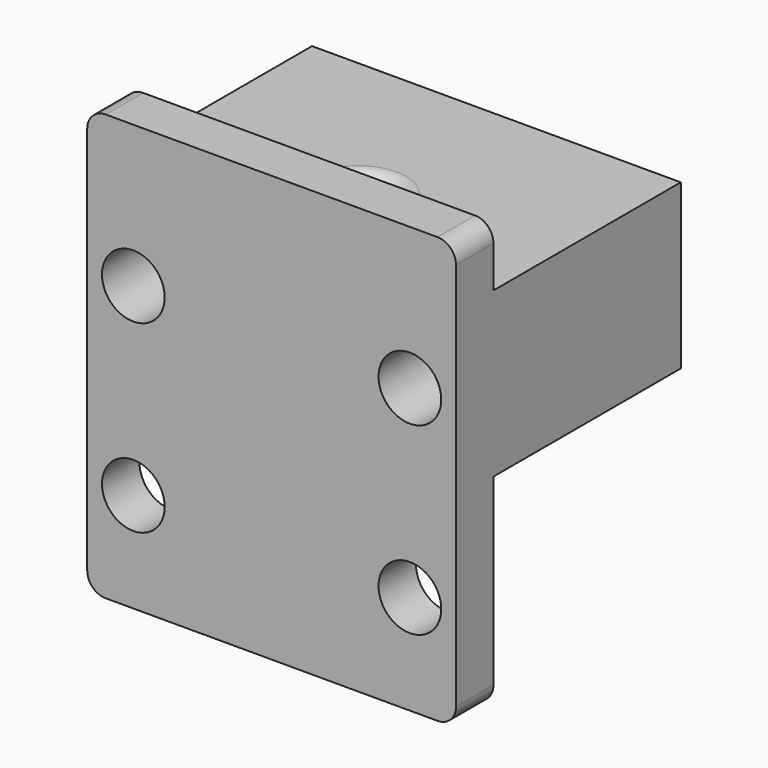
from build123d import *

# Parameters (mm, degrees)
SKETCH036_W  = 19.99996
SKETCH036_H  = 23.09876
SKETCH036_R  = 1.7
PAD003_DEPTH = 2.54
SKETCH051_W  = 19.99996
SKETCH051_H  = 8.89
SKETCH051_R  = 1.7
PAD_DEPTH    = 12.7
SKETCH050_R  = 0.9
PAD011_DEPTH = 2.975
SKETCH_R     = 1.5875
POCKET_DEPTH = 8.89
FILLET_R     = 1.00076


with BuildPart() as part:
    # Sketch036 → Pad003 (new body)
    with BuildSketch(Plane(origin=(0, 10, -45.999574), x_dir=(-1, 0, 0), z_dir=(0, 1, 0))):
        with Locations((0, 1.15062)):
            Rectangle(SKETCH036_W, SKETCH036_H)
        with Locations((-7.5, 5.00124)):
            Circle(SKETCH036_R, mode=Mode.SUBTRACT)
        with Locations((-7.5, -4.99876)):
            Circle(SKETCH036_R, mode=Mode.SUBTRACT)
        with Locations((7.5, -4.99876)):
            Circle(SKETCH036_R, mode=Mode.SUBTRACT)
        with Locations((7.5, 5.00124)):
            Circle(SKETCH036_R, mode=Mode.SUBTRACT)
    extrude(amount=PAD003_DEPTH)

    # Sketch051 (on Face10 of Pad003) → Pad (join)
    with BuildSketch(Plane(origin=(0, 12.54, -45.999574), x_dir=(-1, 0, 0), z_dir=(0, 1, 0))):
        with Locations((0, 5.00124)):
            Rectangle(SKETCH051_W, SKETCH051_H)
        with Locations((-7.5, 5.00124)):
            Circle(SKETCH051_R, mode=Mode.SUBTRACT)
        with Locations((7.5, 5.00124)):
            Circle(SKETCH051_R, mode=Mode.SUBTRACT)
    extrude(amount=PAD_DEPTH)

    # Sketch050 → Pad011 (join)
    with BuildSketch(Plane(origin=(0, 10, -56.398334), x_dir=(-1, 0, 0), z_dir=(0, 0, -1))):
        with BuildLine():
            Line((-3.175, 2.54), (-3.175, 0))
            Line((-3.175, 0), (3.175, 0))
            Line((3.175, 0), (3.175, 2.54))
            Line((3.175, 2.54), (1.90374, 6.488023))
            ThreePointArc((1.90374, 6.488023), (0, 7.87502), (-1.90374, 6.488023))
            Line((-1.90374, 6.488023), (-3.175, 2.54))
        make_face()
        with Locations((0, 5.87502)):
            Circle(SKETCH050_R, mode=Mode.SUBTRACT)
    extrude(amount=-PAD011_DEPTH)

    # Sketch (on Face16 of Pad011) → Pocket (cut)
    with BuildSketch(Plane(origin=(0, 10, -36.553334), x_dir=(1, 0, 0), z_dir=(0, 0, 1))):
        with Locations((0, 5.87502)):
            Circle(SKETCH_R)
    extrude(amount=-POCKET_DEPTH, mode=Mode.SUBTRACT)

    # Fillet
    fillet_edges = [part.edges().sort_by_distance(p)[0] for p in [
        (-1.5875, 15.87502, -36.553334),
        (-1.5875, 15.87502, -45.443334),
        (9.99998, 11.27, -33.299574),
        (-9.99998, 11.27, -33.299574),
        (9.99998, 11.27, -56.398334),
        (-9.99998, 11.27, -56.398334),
    ]]
    fillet(fillet_edges, radius=FILLET_R)


solid = part.part
